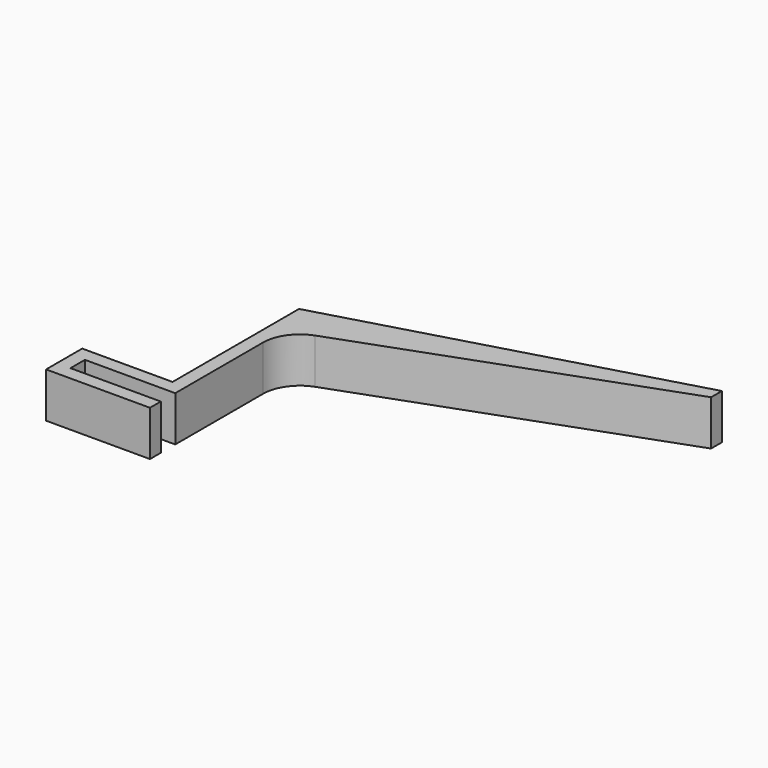
from build123d import *

# Parameters (mm, degrees)
PAD_DEPTH = 10


with BuildPart() as part:
    # Sketch → Pad (new body)
    with BuildSketch(Plane.XY):
        with BuildLine():
            Line((0, -4), (20, -4))
            Line((20, -4), (20, -7))
            Line((20, -7), (-3, -7))
            Line((-3, -7), (-3, 3))
            Line((-3, 3), (17, 3))
            Line((17, 3), (17, 38))
            Line((17, 38), (93.296024, 59.677571))
            Line((93.296024, 56.677571), (93.296024, 59.677571))
            Line((25.385638, 31.960212), (93.296024, 56.677571))
            ThreePointArc((25.385638, 31.960212), (21.480261, 28.96351), (20, 24.268723))
            Line((20, 0), (20, 24.268723))
            Line((0, 0), (20, 0))
            Line((0, -4), (0, 0))
        make_face()
    extrude(amount=PAD_DEPTH)


solid = part.part
